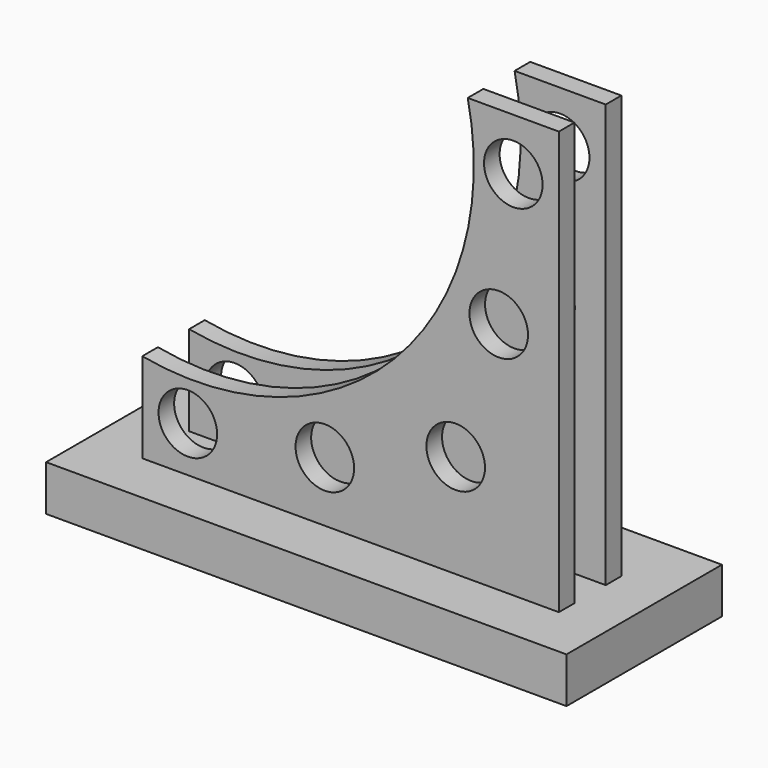
from build123d import *

# Parameters (mm, degrees)
F0_W     = 320
F0_H     = 60
F1_DEPTH = 360
F2_R     = 22.5
F3_DEPTH = 60
F5_DEPTH = 101.068698
F6_W     = 30
F6_H     = 360
F7_DEPTH = 320
F8_W     = 399.738486
F8_H     = 149.227709
F9_DEPTH = 35


with BuildPart() as f1:
    # F0 (on Top) → F1 (new body)
    with BuildSketch(Plane.XY):
        with Locations((-160, -71.068698)):
            Rectangle(F0_W, F0_H)
    extrude(amount=F1_DEPTH)

    # F2 (on face) → F3 (cut, through all)
    with BuildSketch(Plane.XZ.offset(101.068698)):
        with Locations((-35, 320)):
            Circle(F2_R)
        with Locations((-285, 70)):
            Circle(F2_R)
        with Locations((-179.76, 81.2)):
            Circle(F2_R)
        with Locations((-79.24, 114.3)):
            Circle(F2_R)
        with Locations((-46.2, 214.76)):
            Circle(F2_R)
    extrude(amount=-F3_DEPTH, mode=Mode.SUBTRACT)

    # F4 (on Front) → F5 (cut, through all)
    with BuildSketch(Plane.XZ):
        with BuildLine():
            Line((-320, 360), (-320, 104.046823))
            ThreePointArc((-320, 104.046823), (-126.506917, 165.123399), (-70, 360))
            Line((-70, 360), (-320, 360))
        make_face()
    extrude(amount=F5_DEPTH, mode=Mode.SUBTRACT)

    # F6 (on Right) → F7 (cut, through all)
    with BuildSketch(Plane.YZ):
        with Locations((-71.068698, 180)):
            Rectangle(F6_W, F6_H)
    extrude(amount=-F7_DEPTH, mode=Mode.SUBTRACT)

    # F8 (on face) → F9 (join)
    with BuildSketch(Plane(origin=(0, 0, 0), x_dir=(1, 0, 0), z_dir=(0, 0, -1))):
        with Locations((-162.054332, 66.393896)):
            Rectangle(F8_W, F8_H)
    extrude(amount=-F9_DEPTH)


solid = f1.part
